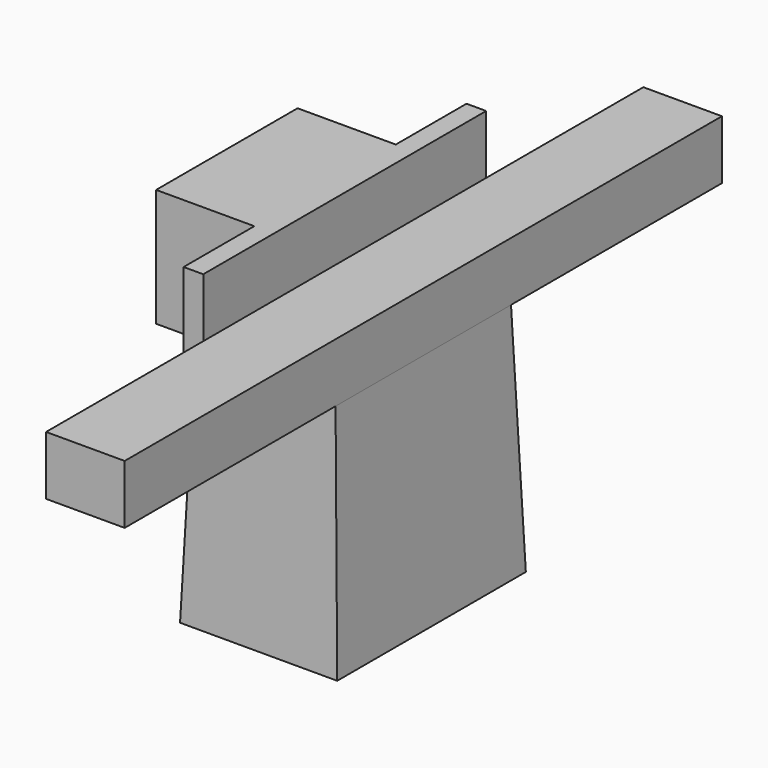
from build123d import *

# Parameters (mm, degrees)
F0_W     = 406.4
F0_H     = 609.6
F1_DEPTH = 609.6
F1_TAPER = 2
F2_W     = 203.2
F2_H     = 1930.4
F3_DEPTH = 152.4
F5_DEPTH = 304.8


with BuildPart() as f1:
    # F0 (on Top) → F1 (new body)
    with BuildSketch(Plane.XY):
        with Locations((203.2, 304.8)):
            Rectangle(F0_W, F0_H)
    extrude(amount=F1_DEPTH, taper=F1_TAPER)

    # F2 (on face) → F3 (join)
    with BuildSketch(Plane.XY.offset(609.6)):
        with Locations((283.5122989178, 304.8)):
            Rectangle(F2_W, F2_H)
    extrude(amount=F3_DEPTH)

    # F4 (on face) → F5 (join)
    with BuildSketch(Plane.XY.offset(609.6)):
        Polygon((181.9122989178, -152.4), (181.9122989178, 762), (131.1122989178, 762), (131.1122989178, 533.4), (-122.8877010822, 533.4), (-122.8877010822, 76.2), (131.1122989178, 76.2), (131.1122989178, -152.4), align=None)
    extrude(amount=F5_DEPTH)


solid = f1.part
